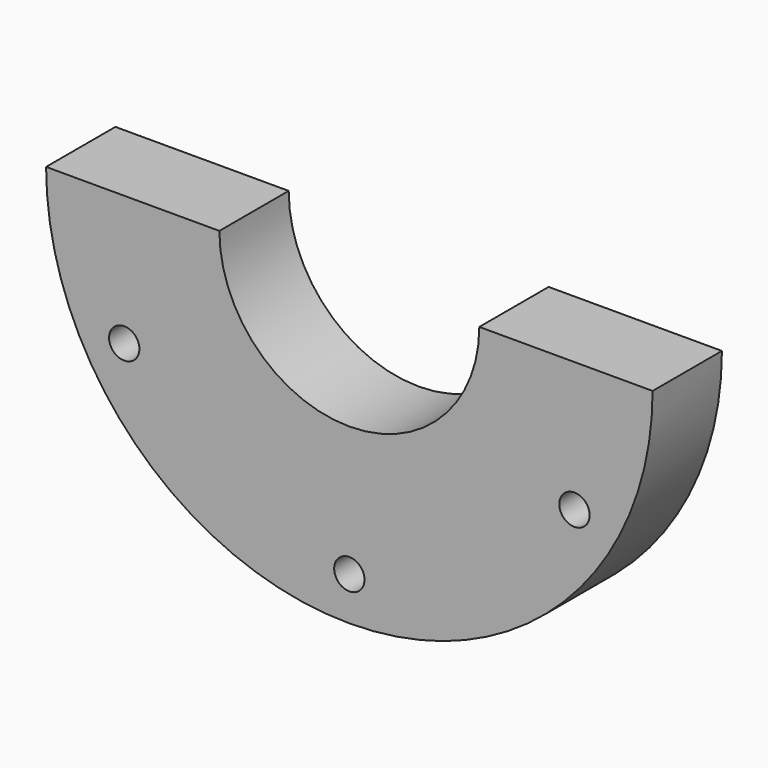
from build123d import *

# Parameters (mm, degrees)
F0_R     = 3.5
F1_DEPTH = 20


with BuildPart() as f1:
    # F0 (on Front) → F1 (new body)
    with BuildSketch(Plane.XZ):
        with BuildLine():
            ThreePointArc((-70, 0), (0, -70), (70, 0))
            Line((70, 0), (30, 0))
            ThreePointArc((30, 0), (0, -30), (-30, 0))
            Line((-30, 0), (-70, 0))
        make_face()
        with Locations((0, -60)):
            Circle(F0_R, mode=Mode.SUBTRACT)
        with Locations((-51.961524, -30)):
            Circle(F0_R, mode=Mode.SUBTRACT)
        with Locations((51.961524, -30)):
            Circle(F0_R, mode=Mode.SUBTRACT)
    extrude(amount=F1_DEPTH)


solid = f1.part
